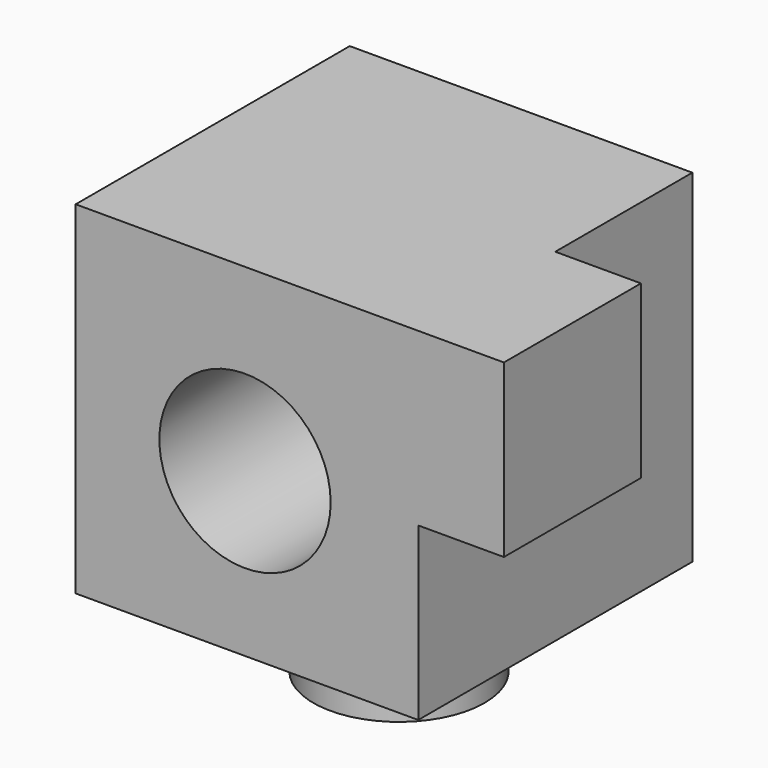
from build123d import *

# Parameters (mm, degrees)
F0_W     = 50.8
F0_H     = 50.8
F1_DEPTH = 50.8
F2_R     = 12.7
F3_DEPTH = 50.8
F4_R     = 12.7
F5_DEPTH = 12.7
F6_W     = 25.4
F6_H     = 25.4
F7_DEPTH = 12.7


with BuildPart() as f1:
    # F0 (on Front) → F1 (new body)
    with BuildSketch(Plane.XZ):
        with Locations((25.4, 25.4)):
            Rectangle(F0_W, F0_H)
        with Locations((25.4, 25.4)):
            Rectangle(F0_W, F0_H)
    extrude(amount=F1_DEPTH)

    # F2 (on face) → F3 (cut)
    with BuildSketch(Plane.XZ.offset(50.8)):
        with Locations((25.110539, 24.155764)):
            Circle(F2_R)
    extrude(amount=-F3_DEPTH, mode=Mode.SUBTRACT)

    # F4 (on face) → F5 (join)
    with BuildSketch(Plane(origin=(0, 0, 0), x_dir=(1, 0, 0), z_dir=(0, 0, -1))):
        with Locations((26.187155, 23.615045)):
            Circle(F4_R)
    extrude(amount=F5_DEPTH)

    # F6 (on face) → F7 (join)
    with BuildSketch(Plane.YZ.offset(50.8)):
        with Locations((-38.1, 38.1)):
            Rectangle(F6_W, F6_H)
    extrude(amount=F7_DEPTH)


solid = f1.part
